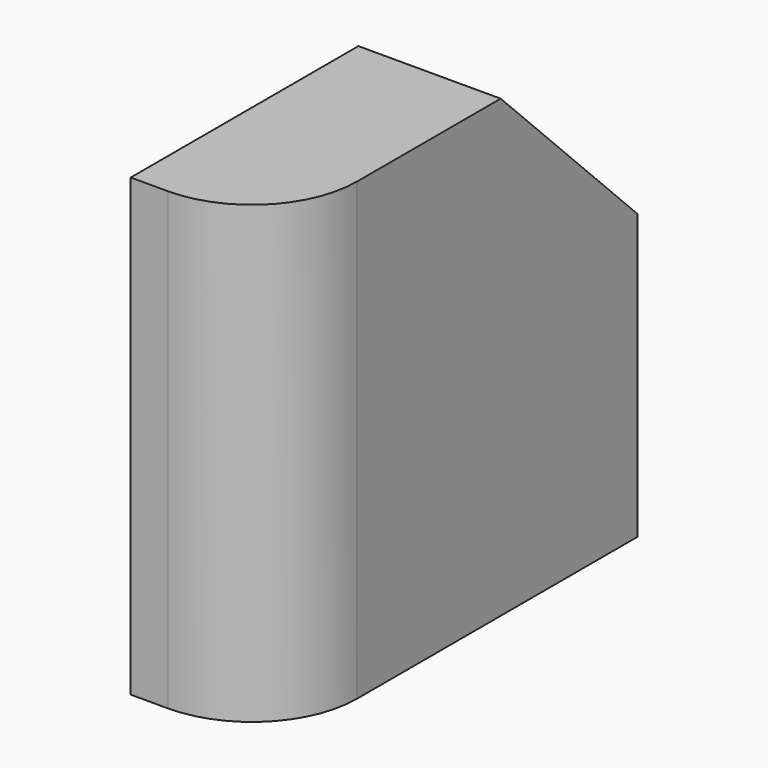
from build123d import *

# Parameters (mm, degrees)
F0_W     = 80
F0_H     = 80
F1_DEPTH = 25
F2_SIZE  = 30
F3_R     = 18.489641


with BuildPart() as f1:
    # F0 (on Right) → F1 (new body)
    with BuildSketch(Plane.YZ):
        with Locations((-9.415843, 26.514679)):
            Rectangle(F0_W, F0_H)
    extrude(amount=F1_DEPTH)

    # F2
    f2_edges = [f1.edges().sort_by_distance(p)[0] for p in [
        (12.5, 30.584157, 66.514679),
    ]]
    chamfer(f2_edges, length=F2_SIZE)

    # F3
    f3_edges = [f1.edges().sort_by_distance(p)[0] for p in [
        (25, -49.415843, 26.514679),
    ]]
    fillet(f3_edges, radius=F3_R)


solid = f1.part
